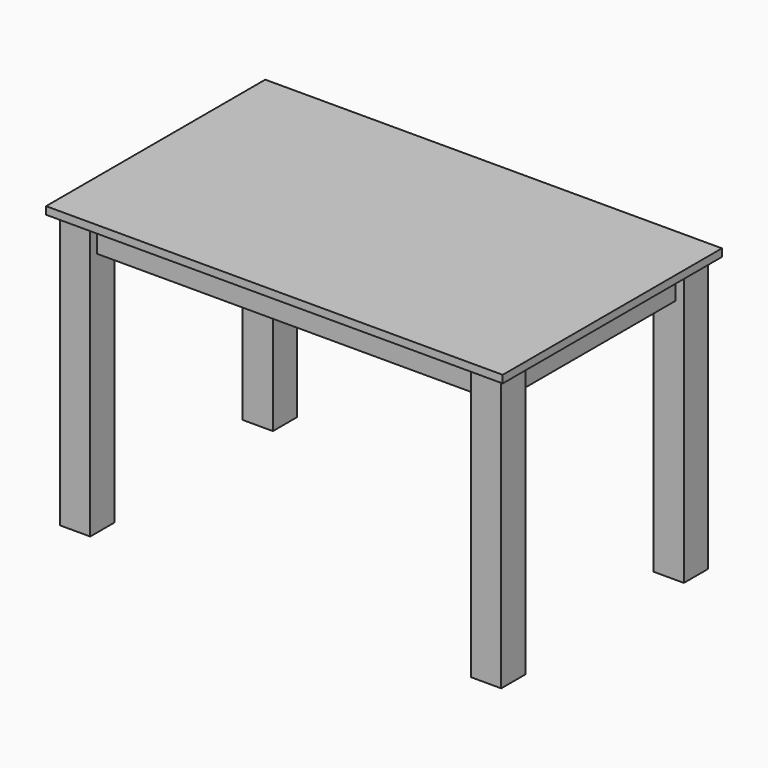
from build123d import *

# Parameters (mm, degrees)
F0_W     = 1524
F0_H     = 914.4
F1_DEPTH = 25.4
F2_W     = 101.6
F2_H     = 101.6
F3_DEPTH = 914.4
F4_W     = 1270
F4_H     = 44.45
F4_W_2   = 44.45
F4_H_2   = 660.4
F5_DEPTH = 95.25


with BuildPart() as f1:
    # F0 (on Top) → F1 (new body)
    with BuildSketch(Plane.XY):
        with Locations((0.354476, 99.283996)):
            Rectangle(F0_W, F0_H)
    extrude(amount=F1_DEPTH)


with BuildPart() as f3:
    # F2 (on face) → F3 (new body)
    with BuildSketch(Plane(origin=(0, 0, 0), x_dir=(1, 0, 0), z_dir=(0, 0, -1))):
        with Locations((-685.445524, 281.716004)):
            Rectangle(F2_W, F2_H)
        with Locations((-685.445524, -480.283996)):
            Rectangle(F2_W, F2_H)
        with Locations((686.154476, -480.283996)):
            Rectangle(F2_W, F2_H)
        with Locations((686.154476, 281.716004)):
            Rectangle(F2_W, F2_H)
    extrude(amount=F3_DEPTH)


with BuildPart() as f5:
    # F4 (on face) → F5 (new body)
    with BuildSketch(Plane(origin=(0, 0, 0), x_dir=(1, 0, 0), z_dir=(0, 0, -1))):
        with Locations((0.354476, 281.716004)):
            Rectangle(F4_W, F4_H)
        with Locations((686.154476, -99.283996)):
            Rectangle(F4_W_2, F4_H_2)
        with Locations((0.354476, -480.283996)):
            Rectangle(F4_W, F4_H)
        with Locations((-685.445524, -99.283996)):
            Rectangle(F4_W_2, F4_H_2)
    extrude(amount=F5_DEPTH)


solid = Compound([f1.part, f3.part, f5.part])
